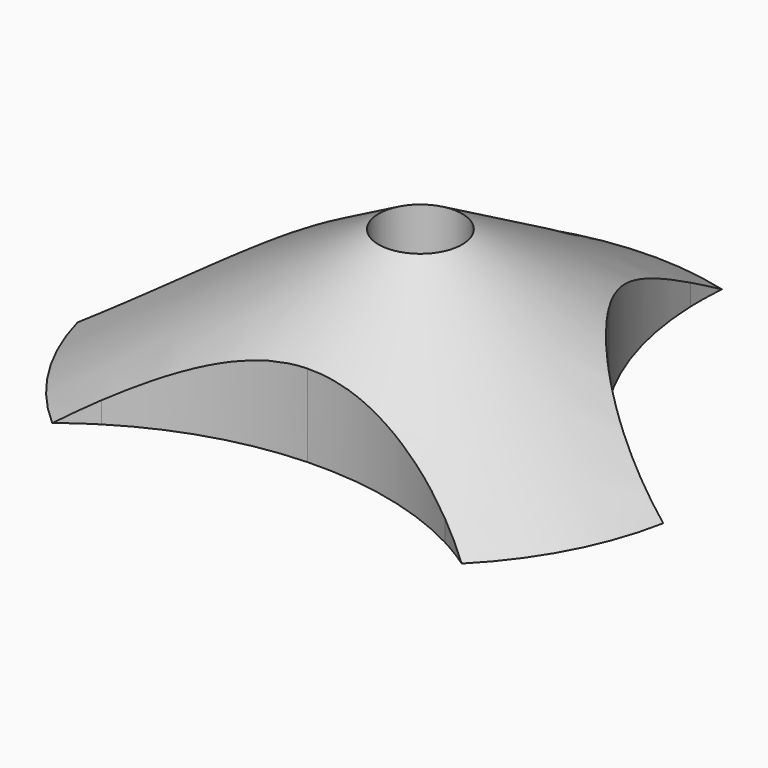
from build123d import *

# Parameters (mm, degrees)
F3_DEPTH       = 25
F4_D           = 10
F4_CBORE_D     = 22
F4_CBORE_DEPTH = 7


with BuildPart() as f1:
    # F0 (on Front) → F1 (revolve)
    with BuildSketch(Plane.XZ):
        Polygon((-35, 0), (0, 0), (0, 20), align=None)
    revolve(axis=Axis((0, 0, 10), (0, 0, -1)))

    # F2 (on Top) → F3 (cut)
    with BuildSketch(Plane.XY):
        with BuildLine():
            Line((2.0660725, -57.6980474345), (20.8136189308, -22.3635104654))
            ThreePointArc((20.8136189308, -22.3635104654), (11.0295606596, -18.7152835508), (0.6346554831, -17.7236675729))
            Line((0.6346554831, -17.7236675729), (2.0660725, -57.6980474345))
        make_face()
        with BuildLine():
            ThreePointArc((-19.1607609308, -23.7949274822), (-17.310803703, -92.6914277888), (42.0660725, -57.6980474345))
            ThreePointArc((42.0660725, -57.6980474345), (36.3436297148, -37.0813291849), (20.8136189308, -22.3635104654))
            Line((20.8136189308, -22.3635104654), (2.0660725, -57.6980474345))
            Line((2.0660725, -57.6980474345), (-19.1607609308, -23.7949274822))
        make_face()
        with BuildLine():
            ThreePointArc((0.6346554831, -17.7236675729), (-9.6627009891, -19.4562395217), (-19.1607609308, -23.7949274822))
            Line((-19.1607609308, -23.7949274822), (2.0660725, -57.6980474345))
            Line((2.0660725, -57.6980474345), (0.6346554831, -17.7236675729))
        make_face()
        with BuildLine():
            Line((48.9349385771, 30.6382949883), (30.1873921462, -4.6962419808))
            ThreePointArc((30.1873921462, -4.6962419808), (69.5516568267, -3.6392622266), (88.9349385771, 30.6382949883))
            ThreePointArc((88.9349385771, 30.6382949883), (48.2191154377, 70.6318894408), (8.9605587154, 29.2068779715))
            Line((8.9605587154, 29.2068779715), (48.9349385771, 30.6382949883))
        make_face()
        with BuildLine():
            ThreePointArc((8.9605587154, 29.2068779715), (10.6931306643, 18.9095214992), (15.0318186248, 9.4114615575))
            Line((15.0318186248, 9.4114615575), (48.9349385771, 30.6382949883))
            Line((48.9349385771, 30.6382949883), (8.9605587154, 29.2068779715))
        make_face()
        with BuildLine():
            ThreePointArc((15.0318186248, 9.4114615575), (21.6809481825, 1.3599752351), (30.1873921462, -4.6962419808))
            Line((30.1873921462, -4.6962419808), (48.9349385771, 30.6382949883))
            Line((48.9349385771, 30.6382949883), (15.0318186248, 9.4114615575))
        make_face()
        with BuildLine():
            ThreePointArc((-11.0266312154, 28.4911694631), (-86.3355480462, 45.8072988771), (-29.7741776462, -6.8433675061))
            Line((-29.7741776462, -6.8433675061), (-51.001011077, 27.0597524462))
            Line((-51.001011077, 27.0597524462), (-11.0266312154, 28.4911694631))
        make_face()
        with BuildLine():
            ThreePointArc((-11.001011077, 27.0597524462), (-11.0074166245, 27.7755755856), (-11.0266312154, 28.4911694631))
            Line((-11.0266312154, 28.4911694631), (-51.001011077, 27.0597524462))
            Line((-51.001011077, 27.0597524462), (-15.6664741079, 8.3122060154))
            ThreePointArc((-15.6664741079, 8.3122060154), (-12.1848966478, 17.4000805772), (-11.001011077, 27.0597524462))
        make_face()
        with BuildLine():
            Line((-51.001011077, 27.0597524462), (-29.7741776462, -6.8433675061))
            ThreePointArc((-29.7741776462, -6.8433675061), (-21.7226913238, -0.1942379484), (-15.6664741079, 8.3122060154))
            Line((-15.6664741079, 8.3122060154), (-51.001011077, 27.0597524462))
        make_face()
    extrude(amount=F3_DEPTH, mode=Mode.SUBTRACT)

    # F4 (through all)
    with Locations(Plane(origin=(0, 0, 0), x_dir=(1, 0, 0), z_dir=(0, 0, -1))):
        with Locations((0, 0)):
            CounterBoreHole(F4_D / 2, F4_CBORE_D / 2, F4_CBORE_DEPTH)


solid = f1.part
